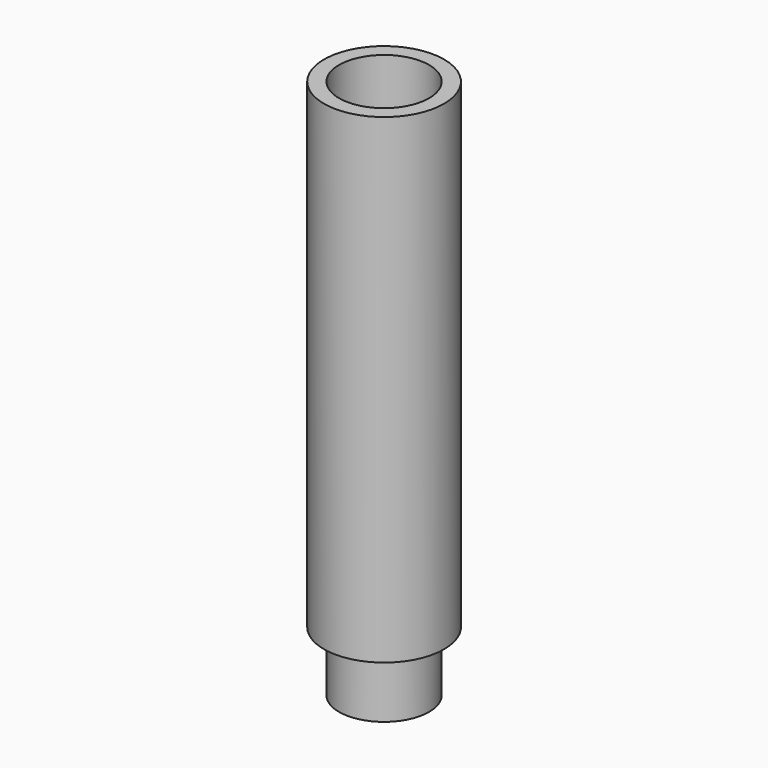
from build123d import *

# Parameters (mm, degrees)
F0_R     = 3.175
F0_R_2   = 2.38125
F1_DEPTH = 25.4
F0_R_3   = 2.001721
F2_DEPTH = 3.175


with BuildPart() as f1:
    # F0 (on Top) → F1 (new body)
    with BuildSketch(Plane.XY):
        Circle(F0_R)
        Circle(F0_R_2, mode=Mode.SUBTRACT)
    extrude(amount=F1_DEPTH)


with BuildPart() as f2:
    # F0 (on Top) → F2 (new body)
    with BuildSketch(Plane.XY):
        Circle(F0_R_2)
        Circle(F0_R_3, mode=Mode.SUBTRACT)
    extrude(amount=-F2_DEPTH)


solid = Compound([f1.part, f2.part])
